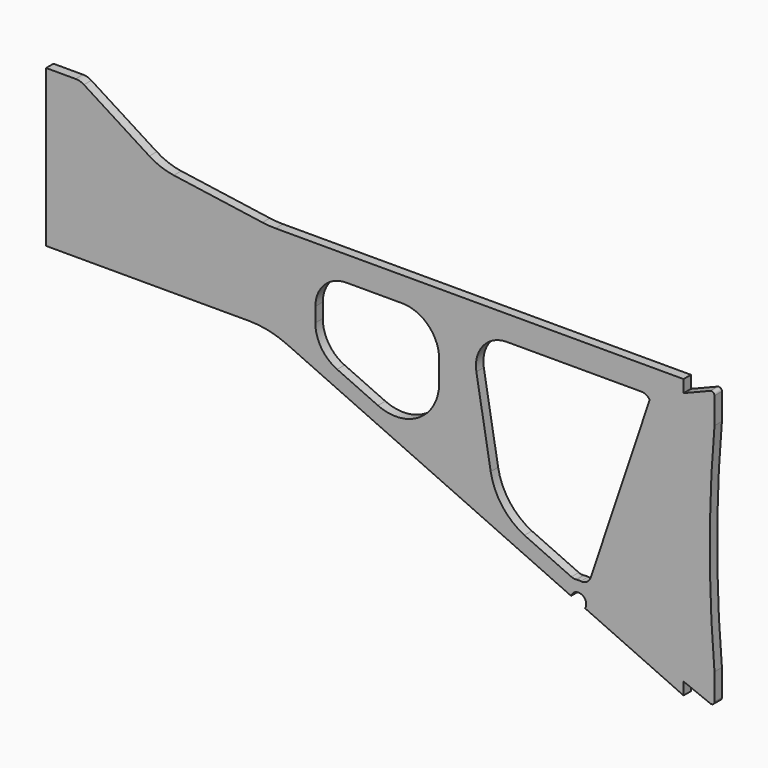
from build123d import *

# Parameters (mm, degrees)
F1_DEPTH = 3


with BuildPart() as f1:
    # F0 (on Front) → F1 (new body)
    with BuildSketch(Plane.XZ):
        with BuildLine():
            Line((9.547373, 0), (0, 0))
            Line((0, 0), (0, -50.61))
            Line((0, -50.61), (65.50128, -50.61))
            ThreePointArc((65.50128, -50.61), (71.852686, -51.290047), (77.916141, -53.299357))
            Line((77.916141, -53.299357), (169.617761, -94.98504))
            ThreePointArc((169.617761, -94.98504), (172.383668, -93.272901), (174.5, -95.743285))
            ThreePointArc((174.5, -95.743285), (174.407699, -96.416327), (174.137612, -97.039671))
            Line((174.137612, -97.039671), (205.947947, -111.5))
            Line((205.947947, -111.5), (205.947947, -107.5))
            Line((205.947947, -107.5), (214.576557, -110.951444))
            ThreePointArc((214.576557, -110.951444), (215.508576, -110.851034), (215.947947, -110.022967))
            Line((215.947947, -110.022967), (215.947947, -101.5))
            ThreePointArc((215.947947, -101.5), (214.419617, -66.5), (215.947947, -31.5))
            Line((215.947947, -31.5), (215.947947, -22.977033))
            ThreePointArc((215.947947, -22.977033), (215.508576, -22.148966), (214.576557, -22.048556))
            Line((214.576557, -22.048556), (205.947947, -25.5))
            Line((205.947947, -25.5), (205.947947, -21.5))
            Line((205.947947, -21.5), (74.132034, -21.5))
            ThreePointArc((74.132034, -21.5), (72.005364, -21.424526), (69.889394, -21.198485))
            Line((69.889394, -21.198485), (41.25714, -17.108163))
            ThreePointArc((41.25714, -17.108163), (37.158324, -16.07119), (33.369079, -14.195761))
            Line((33.369079, -14.195761), (12.226495, -0.778353))
            ThreePointArc((12.226495, -0.778353), (10.942322, -0.19853), (9.547373, 0))
        make_face()
        with BuildLine():
            ThreePointArc((139.015857, -41.198191), (141.222671, -33.057249), (148.870609, -29.5))
            Line((148.870609, -29.5), (192.401924, -29.5))
            ThreePointArc((192.401924, -29.5), (193.901924, -29.901924), (195, -31))
            Line((195, -31), (175.934504, -87.76478))
            ThreePointArc((175.934504, -87.76478), (174.690897, -89.347155), (172.727083, -89.787502))
            ThreePointArc((172.727083, -89.787502), (172.014742, -89.743303), (171.302191, -89.784002))
            ThreePointArc((171.302191, -89.784002), (170.490013, -89.768373), (169.711801, -89.535424))
            Line((169.711801, -89.535424), (154.550645, -82.643472))
            ThreePointArc((154.550645, -82.643472), (147.348811, -76.674589), (143.648817, -68.083663))
            Line((143.648817, -68.083663), (139.015857, -41.198191))
        make_face(mode=Mode.SUBTRACT)
        with BuildLine():
            ThreePointArc((87, -39.5), (89.928932, -32.428932), (97, -29.5))
            Line((97, -29.5), (115, -29.5))
            ThreePointArc((115, -29.5), (123.485281, -33.014719), (127, -41.5))
            Line((127, -41.5), (127, -48.376778))
            ThreePointArc((127, -48.376778), (120.579234, -60.147726), (107.206398, -61.121745))
            Line((107.206398, -61.121745), (94.034056, -55.133867))
            ThreePointArc((94.034056, -55.133867), (88.910616, -50.706096), (87, -44.20961))
            Line((87, -44.20961), (87, -39.5))
        make_face(mode=Mode.SUBTRACT)
    extrude(amount=F1_DEPTH)


solid = f1.part
